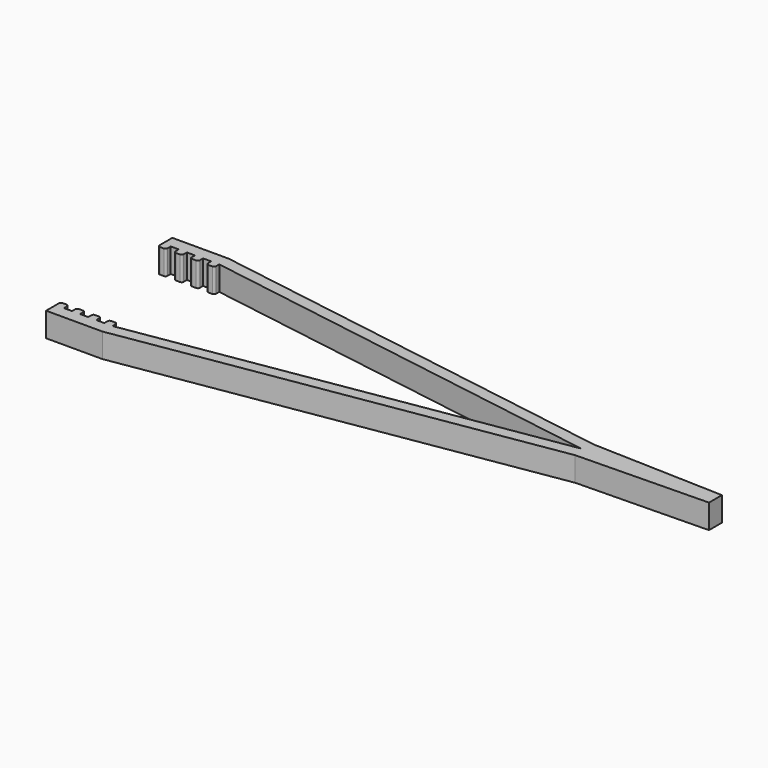
from build123d import *

# Parameters (mm, degrees)
F1_DEPTH = 6


with BuildPart() as f1:
    # F0 (on Top) → F1 (new body)
    with BuildSketch(Plane.XY):
        with BuildLine():
            Line((-27.631374, -19.5), (75.912207, -2.870638))
            Line((75.912207, -2.870638), (108.435528, -2.208774))
            Line((108.435528, -2.208774), (108.435528, 1.791226))
            Line((108.435528, 1.791226), (75.912207, 2.870638))
            Line((75.912207, 2.870638), (-27.631374, 19.5))
            Line((-27.631374, 19.5), (-41.564472, 19.5))
            Line((-41.564472, 19.5), (-41.564472, 15.5))
            ThreePointArc((-41.564472, 15.5), (-41.418026, 15.146447), (-41.064472, 15))
            Line((-41.064472, 15), (-40.064472, 15))
            ThreePointArc((-40.064472, 15), (-39.710919, 15.146447), (-39.564472, 15.5))
            Line((-39.564472, 15.5), (-39.564472, 16.5))
            Line((-39.564472, 16.5), (-37.564472, 16.5))
            Line((-37.564472, 16.5), (-37.564472, 15.5))
            ThreePointArc((-37.564472, 15.5), (-37.418026, 15.146447), (-37.064472, 15))
            Line((-37.064472, 15), (-36.064472, 15))
            ThreePointArc((-36.064472, 15), (-35.710919, 15.146447), (-35.564472, 15.5))
            Line((-35.564472, 15.5), (-35.564472, 16.5))
            Line((-35.564472, 16.5), (-33.564472, 16.5))
            Line((-33.564472, 16.5), (-33.564472, 15.5))
            ThreePointArc((-33.564472, 15.5), (-33.418026, 15.146447), (-33.064472, 15))
            Line((-33.064472, 15), (-32.064472, 15))
            ThreePointArc((-32.064472, 15), (-31.710919, 15.146447), (-31.564472, 15.5))
            Line((-31.564472, 15.5), (-31.564472, 16.5))
            Line((-31.564472, 16.5), (-29.564472, 16.5))
            Line((-29.564472, 16.5), (-29.564472, 15.5))
            ThreePointArc((-29.564472, 15.5), (-29.418026, 15.146447), (-29.064472, 15))
            Line((-29.064472, 15), (-28.064472, 15))
            ThreePointArc((-28.064472, 15), (-27.710919, 15.146447), (-27.564472, 15.5))
            Line((-27.564472, 15.5), (-27.564472, 16.5))
            Line((-27.564472, 16.5), (75.04075, 0))
            Line((75.04075, 0), (-27.564472, -16.5))
            Line((-27.564472, -16.5), (-27.564472, -15.5))
            ThreePointArc((-27.564472, -15.5), (-27.710919, -15.146447), (-28.064472, -15))
            Line((-28.064472, -15), (-29.064472, -15))
            ThreePointArc((-29.064472, -15), (-29.418026, -15.146447), (-29.564472, -15.5))
            Line((-29.564472, -15.5), (-29.564472, -16.5))
            Line((-29.564472, -16.5), (-31.564472, -16.5))
            Line((-31.564472, -16.5), (-31.564472, -15.5))
            ThreePointArc((-31.564472, -15.5), (-31.710919, -15.146447), (-32.064472, -15))
            Line((-32.064472, -15), (-33.064472, -15))
            ThreePointArc((-33.064472, -15), (-33.418026, -15.146447), (-33.564472, -15.5))
            Line((-33.564472, -15.5), (-33.564472, -16.5))
            Line((-33.564472, -16.5), (-35.564472, -16.5))
            Line((-35.564472, -16.5), (-35.564472, -15.5))
            ThreePointArc((-35.564472, -15.5), (-35.710919, -15.146447), (-36.064472, -15))
            Line((-36.064472, -15), (-37.064472, -15))
            ThreePointArc((-37.064472, -15), (-37.418026, -15.146447), (-37.564472, -15.5))
            Line((-37.564472, -15.5), (-37.564472, -16.5))
            Line((-37.564472, -16.5), (-39.564472, -16.5))
            Line((-39.564472, -16.5), (-39.564472, -15.5))
            ThreePointArc((-39.564472, -15.5), (-39.710919, -15.146447), (-40.064472, -15))
            Line((-40.064472, -15), (-41.064472, -15))
            ThreePointArc((-41.064472, -15), (-41.418026, -15.146447), (-41.564472, -15.5))
            Line((-41.564472, -15.5), (-41.564472, -19.5))
            Line((-41.564472, -19.5), (-27.631374, -19.5))
        make_face()
    extrude(amount=F1_DEPTH)


solid = f1.part
